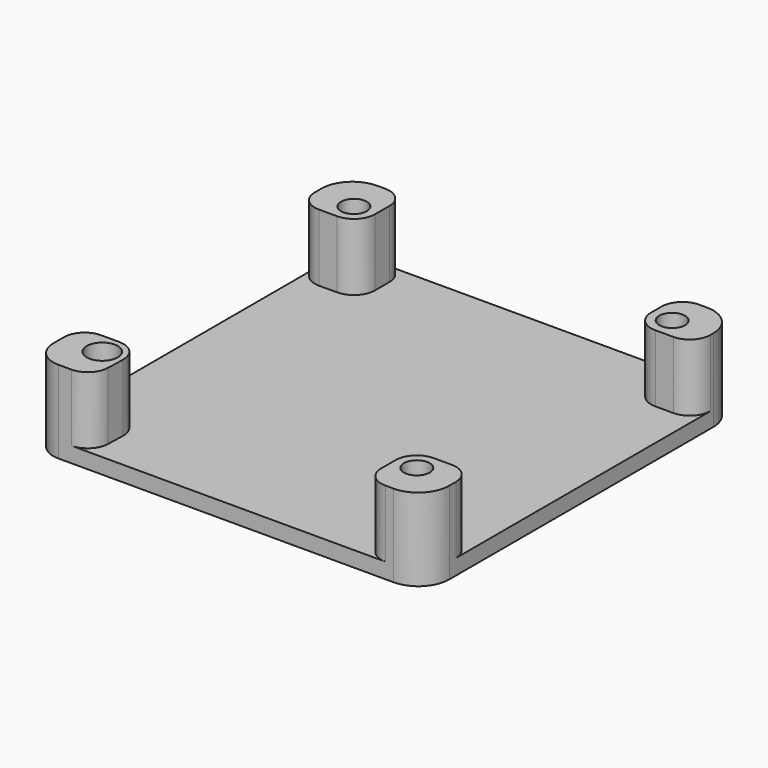
from build123d import *

# Parameters (mm, degrees)
F0_R     = 1.5
F0_R_2   = 1.25
F1_DEPTH = 1.5
F2_DEPTH = 8
F3_R     = 2
F4_R     = 2


with BuildPart() as f1:
    # F0 (on Top) → F1 (new body)
    with BuildSketch(Plane.XY):
        with BuildLine():
            Line((-13.304709, -19), (13.2, -19))
            Line((13.2, -19), (13.2, -15.25))
            ThreePointArc((13.2, -15.25), (13.800431, -13.800431), (15.25, -13.2))
            Line((15.25, -13.2), (19, -13.2))
            Line((19, -13.2), (19, 13.654472))
            Line((19, 13.654472), (15.25, 13.654472))
            ThreePointArc((15.25, 13.654472), (13.800431, 14.254903), (13.2, 15.704472))
            Line((13.2, 15.704472), (13.2, 19))
            Line((13.2, 19), (-13.2, 19))
            Line((-13.2, 19), (-13.2, 15.25))
            ThreePointArc((-13.2, 15.25), (-13.800431, 13.800431), (-15.25, 13.2))
            Line((-15.25, 13.2), (-19, 13.2))
            Line((-19, 13.2), (-19, -13.2))
            Line((-19, -13.2), (-15.25, -13.2))
            ThreePointArc((-15.25, -13.2), (-13.780186, -13.820963), (-13.200811, -15.307662))
            Line((-13.200811, -15.307662), (-13.304709, -19))
        make_face()
        with BuildLine():
            Line((-16.5, -19), (-13.304709, -19))
            Line((-13.304709, -19), (-13.200811, -15.307662))
            ThreePointArc((-13.200811, -15.307662), (-13.780186, -13.820963), (-15.25, -13.2))
            Line((-15.25, -13.2), (-19, -13.2))
            Line((-19, -13.2), (-19, -16.5))
            ThreePointArc((-19, -16.5), (-18.267767, -18.267767), (-16.5, -19))
        make_face()
        with Locations((-15.25, -15.25)):
            Circle(F0_R, mode=Mode.SUBTRACT)
        with BuildLine():
            Line((13.2, -19), (16, -19))
            ThreePointArc((16, -19), (18.12132, -18.12132), (19, -16))
            Line((19, -16), (19, -13.2))
            Line((19, -13.2), (15.25, -13.2))
            ThreePointArc((15.25, -13.2), (13.800431, -13.800431), (13.2, -15.25))
            Line((13.2, -15.25), (13.2, -19))
        make_face()
        with Locations((15.25, -15.25)):
            Circle(F0_R_2, mode=Mode.SUBTRACT)
        with BuildLine():
            Line((15.25, 13.654472), (19, 13.654472))
            Line((19, 13.654472), (19, 16))
            ThreePointArc((19, 16), (18.12132, 18.12132), (16, 19))
            Line((16, 19), (13.2, 19))
            Line((13.2, 19), (13.2, 15.704472))
            ThreePointArc((13.2, 15.704472), (13.800431, 14.254903), (15.25, 13.654472))
        make_face()
        with Locations((15.25, 15.704472)):
            Circle(F0_R_2, mode=Mode.SUBTRACT)
        with BuildLine():
            Line((-19, 16), (-19, 13.2))
            Line((-19, 13.2), (-15.25, 13.2))
            ThreePointArc((-15.25, 13.2), (-13.800431, 13.800431), (-13.2, 15.25))
            Line((-13.2, 15.25), (-13.2, 19))
            Line((-13.2, 19), (-16, 19))
            ThreePointArc((-16, 19), (-18.12132, 18.12132), (-19, 16))
        make_face()
        with Locations((-15.25, 15.25)):
            Circle(F0_R_2, mode=Mode.SUBTRACT)
    extrude(amount=F1_DEPTH)

    # F0 (on Top) → F2 (join)
    with BuildSketch(Plane.XY):
        with BuildLine():
            Line((-16.5, -19), (-13.304709, -19))
            Line((-13.304709, -19), (-13.200811, -15.307662))
            ThreePointArc((-13.200811, -15.307662), (-13.780186, -13.820963), (-15.25, -13.2))
            Line((-15.25, -13.2), (-19, -13.2))
            Line((-19, -13.2), (-19, -16.5))
            ThreePointArc((-19, -16.5), (-18.267767, -18.267767), (-16.5, -19))
        make_face()
        with Locations((-15.25, -15.25)):
            Circle(F0_R, mode=Mode.SUBTRACT)
        with BuildLine():
            Line((13.2, -19), (16, -19))
            ThreePointArc((16, -19), (18.12132, -18.12132), (19, -16))
            Line((19, -16), (19, -13.2))
            Line((19, -13.2), (15.25, -13.2))
            ThreePointArc((15.25, -13.2), (13.800431, -13.800431), (13.2, -15.25))
            Line((13.2, -15.25), (13.2, -19))
        make_face()
        with Locations((15.25, -15.25)):
            Circle(F0_R_2, mode=Mode.SUBTRACT)
        with BuildLine():
            Line((15.25, 13.654472), (19, 13.654472))
            Line((19, 13.654472), (19, 16))
            ThreePointArc((19, 16), (18.12132, 18.12132), (16, 19))
            Line((16, 19), (13.2, 19))
            Line((13.2, 19), (13.2, 15.704472))
            ThreePointArc((13.2, 15.704472), (13.800431, 14.254903), (15.25, 13.654472))
        make_face()
        with Locations((15.25, 15.704472)):
            Circle(F0_R_2, mode=Mode.SUBTRACT)
        with BuildLine():
            Line((-19, 16), (-19, 13.2))
            Line((-19, 13.2), (-15.25, 13.2))
            ThreePointArc((-15.25, 13.2), (-13.800431, 13.800431), (-13.2, 15.25))
            Line((-13.2, 15.25), (-13.2, 19))
            Line((-13.2, 19), (-16, 19))
            ThreePointArc((-16, 19), (-18.12132, 18.12132), (-19, 16))
        make_face()
        with Locations((-15.25, 15.25)):
            Circle(F0_R_2, mode=Mode.SUBTRACT)
    extrude(amount=F2_DEPTH)

    # F3
    f3_edges = [f1.edges().sort_by_distance(p)[0] for p in [
        (-19, 13.2, 4.75),
    ]]
    fillet(f3_edges, radius=F3_R)

    # F4
    f4_edges = [f1.edges().sort_by_distance(p)[0] for p in [
        (-13.2, 19, 4.75),
        (13.2, 19, 4.75),
        (19, 13.654472, 4.75),
        (19, -13.2, 4.75),
        (13.2, -19, 4.75),
        (-13.304709, -19, 4.75),
        (-19, -13.2, 4.75),
    ]]
    fillet(f4_edges, radius=F4_R)


solid = f1.part
